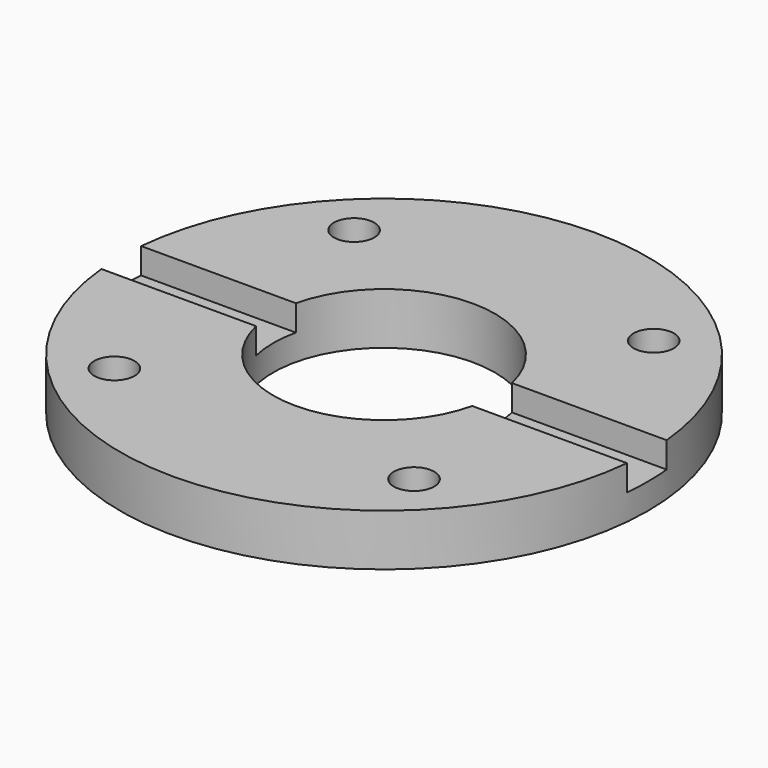
from build123d import *

# Parameters (mm, degrees)
F0_R     = 25.5
F0_R_2   = 1.95
F0_R_3   = 10.71
F1_DEPTH = 5
F3_DEPTH = 2.5


with BuildPart() as f1:
    # F0 (on Top) → F1 (new body)
    with BuildSketch(Plane.XY):
        Circle(F0_R)
        with Locations((-14.475, -14.475)):
            Circle(F0_R_2, mode=Mode.SUBTRACT)
        with Locations((14.475, -14.475)):
            Circle(F0_R_2, mode=Mode.SUBTRACT)
        with Locations((-14.475, 14.475)):
            Circle(F0_R_2, mode=Mode.SUBTRACT)
        Circle(F0_R_3, mode=Mode.SUBTRACT)
        with Locations((14.475, 14.475)):
            Circle(F0_R_2, mode=Mode.SUBTRACT)
    extrude(amount=F1_DEPTH)

    # F2 (on face) → F3 (cut)
    with BuildSketch(Plane.XY.offset(5)):
        with BuildLine():
            Line((-10.4376290411, 2.4), (-25.3868075976, 2.4))
            ThreePointArc((-25.3868075976, 2.4), (-25.4716861803, 1.2013338961), (-25.5, 0))
            ThreePointArc((-25.5, 0), (-25.4716861803, -1.2013338961), (-25.3868075976, -2.4))
            Line((-25.3868075976, -2.4), (-10.4376290411, -2.4))
            ThreePointArc((-10.4376290411, -2.4), (-10.71, 0), (-10.4376290411, 2.4))
        make_face()
        with BuildLine():
            ThreePointArc((25.5, 0), (25.4716861803, 1.2013338961), (25.3868075976, 2.4))
            Line((25.3868075976, 2.4), (10.4376290411, 2.4))
            ThreePointArc((10.4376290411, 2.4), (10.6416894108, 1.2077029787), (10.71, 0))
            ThreePointArc((10.71, 0), (10.6416894108, -1.2077029787), (10.4376290411, -2.4))
            Line((10.4376290411, -2.4), (25.3868075976, -2.4))
            ThreePointArc((25.3868075976, -2.4), (25.4716861803, -1.2013338961), (25.5, 0))
        make_face()
    extrude(amount=-F3_DEPTH, mode=Mode.SUBTRACT)


solid = f1.part
